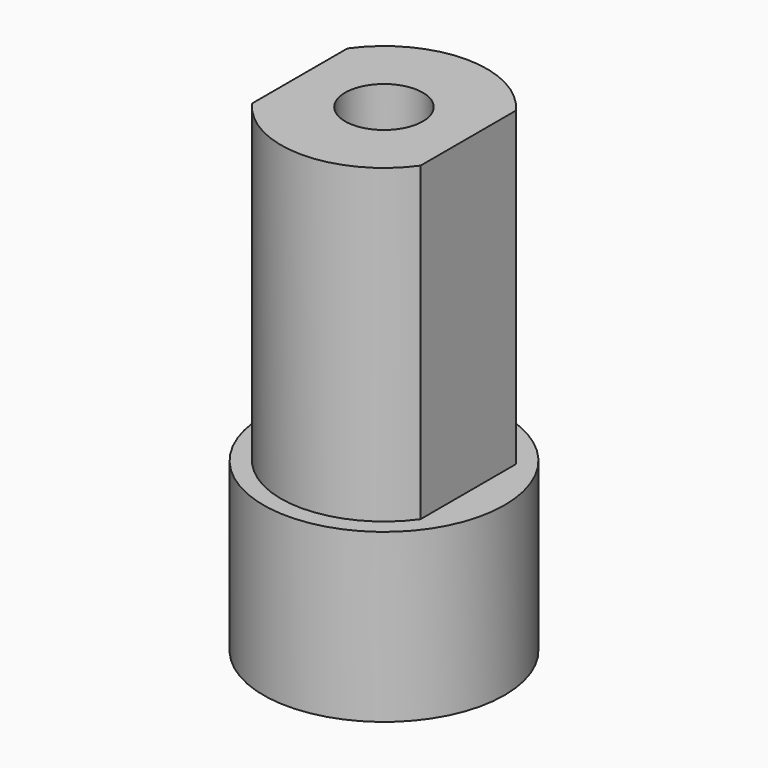
from build123d import *

# Parameters (mm, degrees)
F0_R     = 3.1
F0_R_2   = 1.5
F1_DEPTH = 4.3
F3_DEPTH = 8
F4_R     = 1
F5_DEPTH = 8
F6_DEPTH = 6


with BuildPart() as f1:
    # F0 (on Top) → F1 (new body)
    with BuildSketch(Plane.XY):
        Circle(F0_R)
        Circle(F0_R_2, mode=Mode.SUBTRACT)
        Circle(F0_R_2)
    extrude(amount=F1_DEPTH)

    # F2 (on face) → F3 (join)
    with BuildSketch(Plane.XY.offset(4.3)):
        with BuildLine():
            Line((2.164151, -1.529363), (2.164151, 1.529363))
            ThreePointArc((2.164151, 1.529363), (0, 2.65), (-2.164151, 1.529363))
            Line((-2.164151, 1.529363), (-2.164151, -1.529363))
            ThreePointArc((-2.164151, -1.529363), (0, -2.65), (2.164151, -1.529363))
        make_face()
    extrude(amount=F3_DEPTH)

    # F4 (on face) → F5 (cut)
    with BuildSketch(Plane.XY.offset(12.3)):
        Circle(F4_R)
    extrude(amount=-F5_DEPTH, mode=Mode.SUBTRACT)

    # F0 (on Top) → F6 (cut)
    with BuildSketch(Plane.XY):
        Circle(F0_R_2)
    extrude(amount=F6_DEPTH, mode=Mode.SUBTRACT)


solid = f1.part
